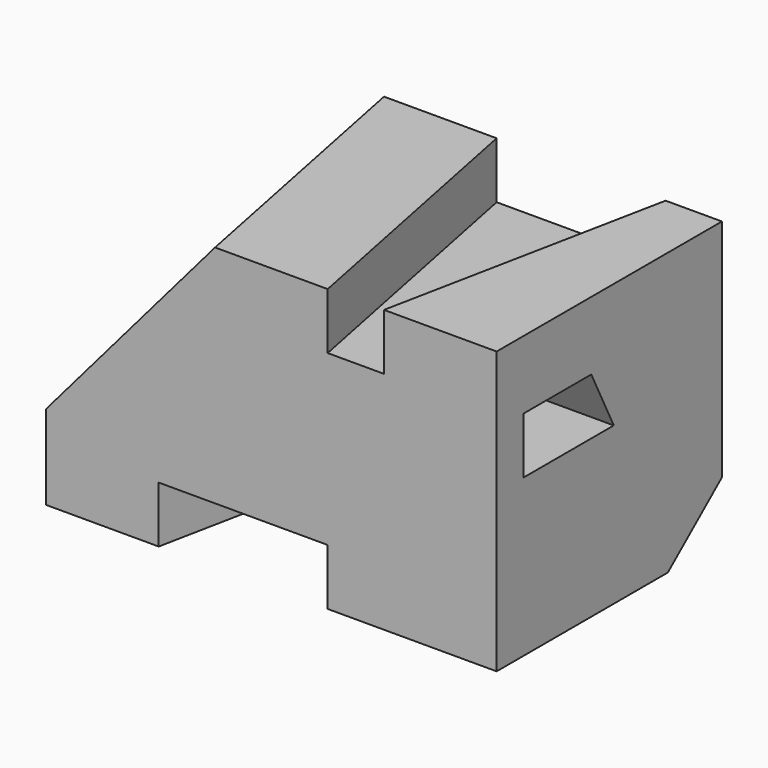
from build123d import *

# Parameters (mm, degrees)
F0_W      = 80
F0_H      = 50
F1_DEPTH  = 50
F3_DEPTH  = 10
F8_DEPTH  = 10
F10_DEPTH = 15
F12_DEPTH = 25


with BuildPart() as f1:
    # F0 (on Top) → F1 (new body)
    with BuildSketch(Plane.XY):
        with Locations((40, 25)):
            Rectangle(F0_W, F0_H)
    extrude(amount=F1_DEPTH)

    # F2 (on face) → F3 (cut)
    with BuildSketch(Plane(origin=(0, 0, 0), x_dir=(1, 0, 0), z_dir=(0, 0, -1))):
        Polygon((50, 0), (20, 0), (30, -50), (40, -50), align=None)
    extrude(amount=-F3_DEPTH, mode=Mode.SUBTRACT)

    # F6: sweep along a path in F5
    with BuildLine(Plane.XY.offset(50)) as f6_path:
        Line((20, 50), (30, 0))
    # F4 (on face) → F6 (sweep, cut)
    with BuildSketch(Plane.XZ):
        Polygon((0, 15), (30, 50), (0, 50), align=None)
    sweep(path=f6_path.line, mode=Mode.SUBTRACT)

    # F7 (on face) → F8 (cut)
    with BuildSketch(Plane.XY.offset(50)):
        Polygon((70, 50), (40, 50), (50, 0), (60, 0), align=None)
    extrude(amount=-F8_DEPTH, mode=Mode.SUBTRACT)

    # F9 (on face) → F10 (cut)
    with BuildSketch(Plane.YZ.offset(80)):
        Polygon((50, 0), (50, 10), (38, 0), align=None)
    extrude(amount=-F10_DEPTH, mode=Mode.SUBTRACT)

    # F11 (on face) → F12 (cut)
    with BuildSketch(Plane.YZ.offset(80)):
        Polygon((21, 37.873078), (6, 37.873078), (6, 27.873078), (26, 27.873078), align=None)
    extrude(amount=-F12_DEPTH, mode=Mode.SUBTRACT)


solid = f1.part
